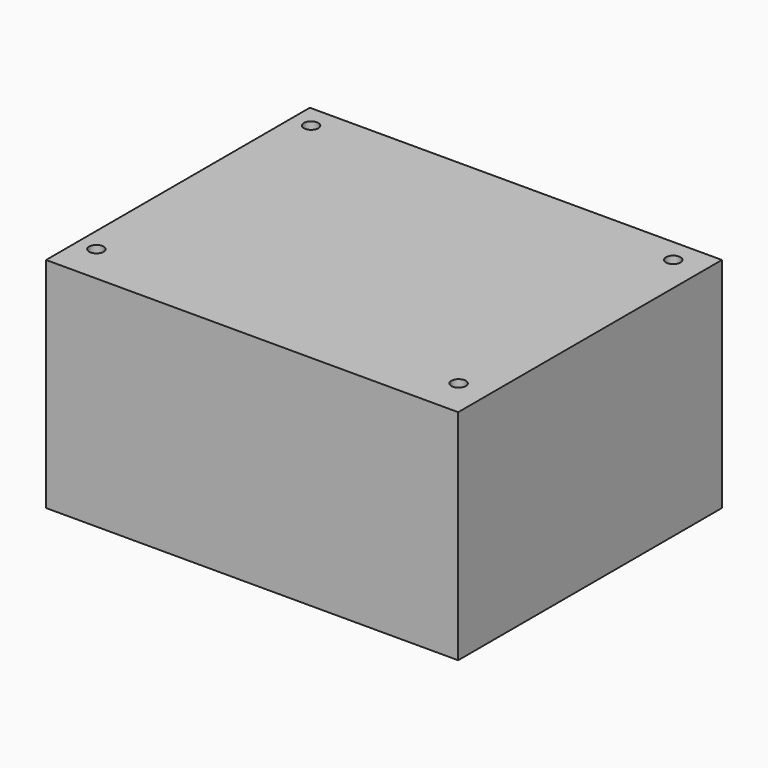
from build123d import *

# Parameters (mm, degrees)
SKETCH_W      = 100
SKETCH_H      = 80
SKETCH_R      = 1.75
PAD_DEPTH     = 4.5
CHAMFER_SIZE  = 1.5
SKETCH001_W   = 100
SKETCH001_H   = 80
SKETCH001_W_2 = 97
SKETCH001_H_2 = 77
PAD001_DEPTH  = 45
SKETCH002_W   = 100
SKETCH002_H   = 80
SKETCH002_R   = 1.75
PAD002_DEPTH  = 3.5


with BuildPart() as part:
    # Sketch → Pad (new body)
    with BuildSketch(Plane.XY):
        with Locations((-14.266246, -4.330319)):
            Rectangle(SKETCH_W, SKETCH_H)
        with Locations((-59.499317, 30.08403)):
            Circle(SKETCH_R, mode=Mode.SUBTRACT)
        with Locations((28.500683, 29.937424)):
            Circle(SKETCH_R, mode=Mode.SUBTRACT)
        with Locations((-59.584126, -34.915915)):
            Circle(SKETCH_R, mode=Mode.SUBTRACT)
        with Locations((28.415874, -35.062521)):
            Circle(SKETCH_R, mode=Mode.SUBTRACT)
    extrude(amount=PAD_DEPTH)

    # Chamfer
    chamfer_edges = [part.edges().sort_by_distance(p)[0] for p in [
        (-61.334126, -34.915915, 0),
        (26.665874, -35.062521, 0),
        (26.750683, 29.937424, 0),
        (-61.249317, 30.08403, 0),
    ]]
    chamfer(chamfer_edges, length=CHAMFER_SIZE)

    # Sketch001 (on Face3 of Chamfer) → Pad001 (join)
    with BuildSketch(Plane.XY.offset(4.5)):
        with Locations((-14.266246, -4.330319)):
            Rectangle(SKETCH001_W, SKETCH001_H)
        with Locations((-14.266246, -4.330319)):
            Rectangle(SKETCH001_W_2, SKETCH001_H_2, mode=Mode.SUBTRACT)
    extrude(amount=PAD001_DEPTH)

    # Sketch002 (on Face19 of Pad001) → Pad002 (join)
    with BuildSketch(Plane.XY.offset(49.5)):
        with Locations((-14.266246, -4.330319)):
            Rectangle(SKETCH002_W, SKETCH002_H)
        with Locations((-59.499317, 30.08403)):
            Circle(SKETCH002_R, mode=Mode.SUBTRACT)
        with Locations((-59.584126, -34.915915)):
            Circle(SKETCH002_R, mode=Mode.SUBTRACT)
        with Locations((28.500683, 29.937424)):
            Circle(SKETCH002_R, mode=Mode.SUBTRACT)
        with Locations((28.415874, -35.062521)):
            Circle(SKETCH002_R, mode=Mode.SUBTRACT)
    extrude(amount=PAD002_DEPTH)


solid = part.part
